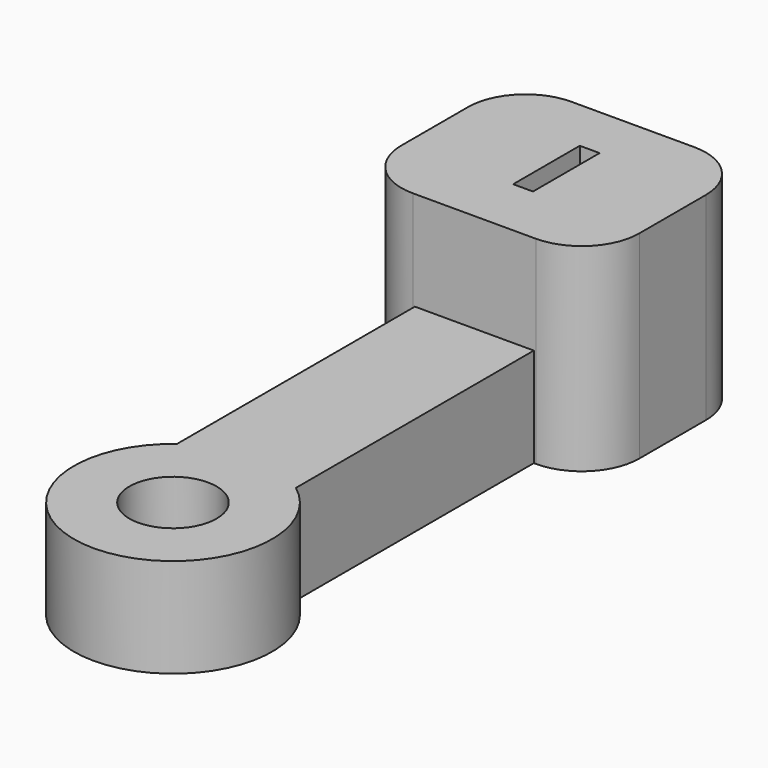
from build123d import *

# Parameters (mm, degrees)
PAD_DEPTH       = 5
SKETCH001_W     = 12
SKETCH001_H     = 10
PAD001_DEPTH    = 5
SKETCH002_W     = 1
SKETCH002_H     = 4.2
POCKET_DEPTH    = 10
FILLET_R        = 2.9
FILLET001_R     = 2.9
FILLET002_R     = 2.9
FILLET003_R     = 2.9
SKETCH003_R     = 2.2
POCKET001_DEPTH = 5


with BuildPart() as part:
    # Sketch → Pad (new body)
    with BuildSketch(Plane.XY):
        with BuildLine():
            ThreePointArc((-3, 4), (0, -5), (3, 4))
            Line((3, 4), (3, 19))
            Line((6, 19), (3, 19))
            Line((6, 29), (6, 19))
            Line((-6, 29), (6, 29))
            Line((-6, 19), (-6, 29))
            Line((-3, 19), (-6, 19))
            Line((-3, 4), (-3, 19))
        make_face()
    extrude(amount=PAD_DEPTH)

    # Sketch001 (on Face10 of Pad) → Pad001 (join)
    with BuildSketch(Plane.XY.offset(5)):
        with Locations((0, 24)):
            Rectangle(SKETCH001_W, SKETCH001_H)
    extrude(amount=PAD001_DEPTH)

    # Sketch002 (on Face15 of Pad001) → Pocket (cut)
    with BuildSketch(Plane.XY.offset(10)):
        with Locations((0, 24.173883)):
            Rectangle(SKETCH002_W, SKETCH002_H)
    extrude(amount=-POCKET_DEPTH, mode=Mode.SUBTRACT)

    # Fillet
    fillet_edges = [part.edges().sort_by_distance(p)[0] for p in [
        (6, 19, 7.5),
    ]]
    fillet(fillet_edges, radius=FILLET_R)

    # Fillet001
    fillet001_edges = [part.edges().sort_by_distance(p)[0] for p in [
        (-6, 19, 7.5),
    ]]
    fillet(fillet001_edges, radius=FILLET001_R)

    # Fillet002
    fillet002_edges = [part.edges().sort_by_distance(p)[0] for p in [
        (6, 29, 7.5),
    ]]
    fillet(fillet002_edges, radius=FILLET002_R)

    # Fillet003
    fillet003_edges = [part.edges().sort_by_distance(p)[0] for p in [
        (-6, 29, 7.5),
    ]]
    fillet(fillet003_edges, radius=FILLET003_R)

    # Sketch003 (on Face26 of Fillet003) → Pocket001 (cut)
    with BuildSketch(Plane.XY.offset(5)):
        Circle(SKETCH003_R)
    extrude(amount=-POCKET001_DEPTH, mode=Mode.SUBTRACT)


solid = part.part
